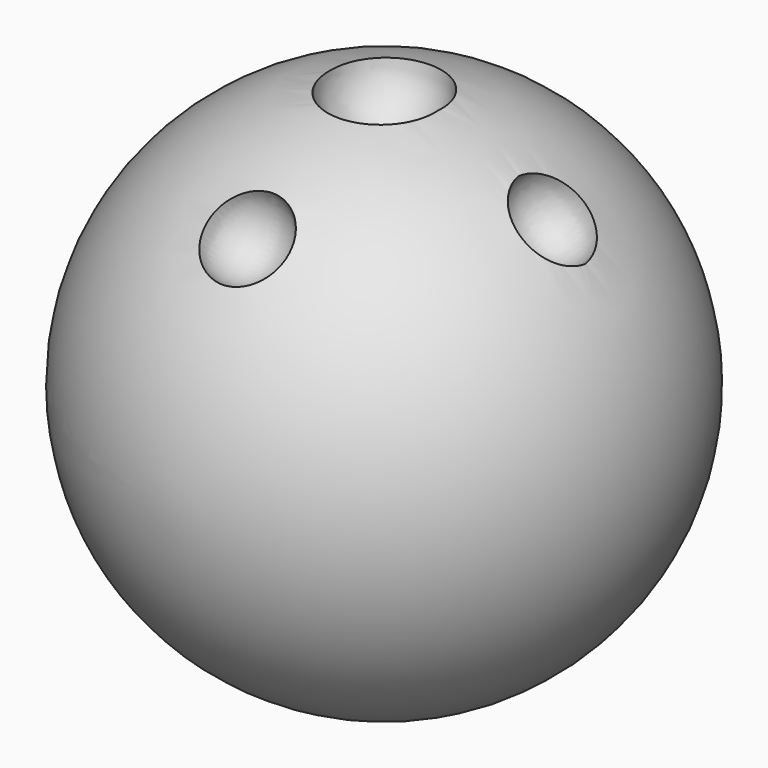
from build123d import *


with BuildPart() as f1:
    # F0 (on Top) → F1 (revolve)
    with BuildSketch(Plane.XY):
        with BuildLine():
            Line((0, -76.4819410428), (0, 76.4819410428))
            ThreePointArc((0, 76.4819410428), (-76.4819410428, 0), (0, -76.4819410428))
        make_face()
    revolve(axis=Axis((0, 0, 0), (0, -1, 0)))

    # F2 (on Front) → F3 (revolve, cut)
    with BuildSketch(Plane.XZ):
        with BuildLine():
            Line((58.2275320531, 49.5396716042), (39.197769185, 65.9294965293))
            ThreePointArc((39.197769185, 65.9294965293), (41.3437272421, 49.1787352339), (58.2275320531, 49.5396716042))
        make_face()
    revolve(axis=Axis((48.7126506191, 0, 57.7345840668), (0.757708068, 0, -0.6525936589)), mode=Mode.SUBTRACT)

    # F4 (on Right) → F5 (revolve, cut)
    with BuildSketch(Plane.YZ):
        with BuildLine():
            Line((-40.8571924, 65.83418158), (-59.6796148394, 50.2801378968))
            ThreePointArc((-59.6796148394, 50.2801378968), (-42.6153579274, 48.7959758366), (-40.8571924, 65.83418158))
        make_face()
    revolve(axis=Axis((0, -50.2684036197, 58.0571597384), (0, 0.7708594668, 0.6370052452)), mode=Mode.SUBTRACT)

    # F6 (on Front) → F7 (revolve, cut)
    with BuildSketch(Plane.XZ):
        with BuildLine():
            Line((15.6625170334, 75.0780701637), (-15.5189712094, 77.193719573))
            ThreePointArc((-15.5189712094, 77.193719573), (-1.0602567881, 59.4514807929), (15.6625170334, 75.0780701637))
        make_face()
    revolve(axis=Axis((0.071772912, 0, 76.1358948684), (0.9977061374, 0, -0.0676938953)), mode=Mode.SUBTRACT)


solid = f1.part
